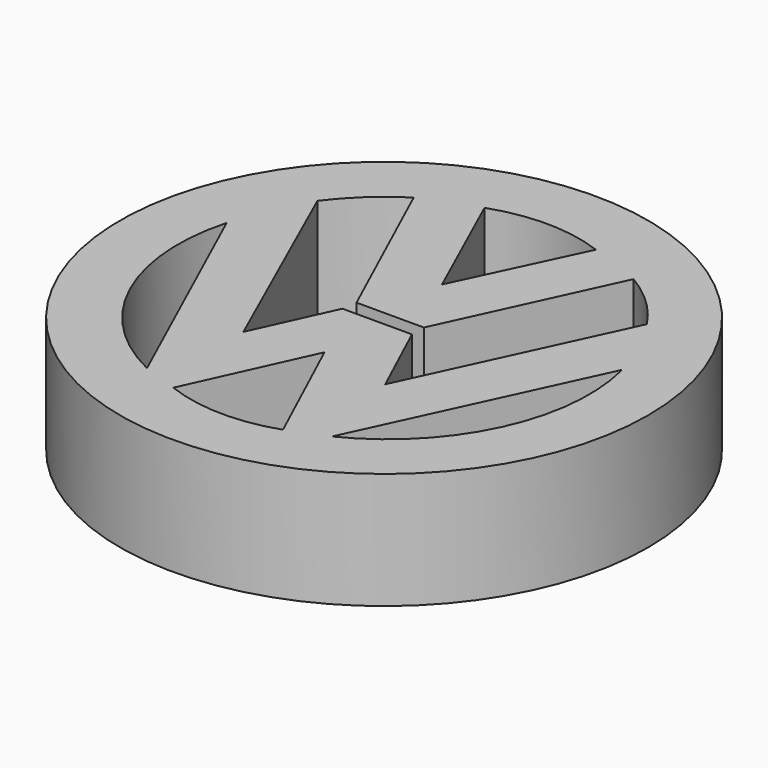
from build123d import *

# Parameters (mm, degrees)
F0_R     = 22.68925
F1_DEPTH = 10


with BuildPart() as f1:
    # F0 (on Top) → F1 (new body)
    with BuildSketch(Plane.XY):
        Circle(F0_R)
        with BuildLine():
            ThreePointArc((-7.861311, -15.651105), (-15.956373, -7.364443), (-16.876968, 4.18334))
            Line((-16.876968, 4.18334), (-7.861311, -15.651105))
        make_face(mode=Mode.SUBTRACT)
        with BuildLine():
            Line((-4.709923, -16.760025), (0, -6.398194))
            Line((0, -6.398194), (4.85551, -16.932277))
            ThreePointArc((4.85551, -16.932277), (0.057537, -17.69339), (-4.709923, -16.760025))
        make_face(mode=Mode.SUBTRACT)
        with BuildLine():
            ThreePointArc((17.192725, 4.088438), (16.101725, -7.399567), (8.034715, -15.651105))
            Line((8.034715, -15.651105), (17.192725, 4.088438))
        make_face(mode=Mode.SUBTRACT)
        with BuildLine():
            Line((-9.379737, 14.907226), (-2.831523, 0.577077))
            Line((-2.831523, 0.577077), (2.957477, 0.577077))
            Line((2.957477, 0.577077), (9.553142, 14.859776))
            ThreePointArc((9.553142, 14.859776), (12.212378, 12.858801), (14.345676, 10.304497))
            Line((14.345676, 10.304497), (6.089231, -7.489563))
            Line((6.089231, -7.489563), (2.957477, -0.704095))
            Line((2.957477, -0.704095), (-3.021327, -0.704095))
            Line((-3.021327, -0.704095), (-6.10563, -7.489563))
            Line((-6.10563, -7.489563), (-14.12482, 10.494299))
            ThreePointArc((-14.12482, 10.494299), (-11.954603, 12.918316), (-9.379737, 14.907226))
        make_face(mode=Mode.SUBTRACT)
        with BuildLine():
            Line((4.907098, 16.624225), (0, 6.223726))
            Line((0, 6.223726), (-4.731807, 16.705138))
            ThreePointArc((-4.731807, 16.705138), (0.094796, 17.516581), (4.907098, 16.624225))
        make_face(mode=Mode.SUBTRACT)
    extrude(amount=F1_DEPTH)


solid = f1.part
